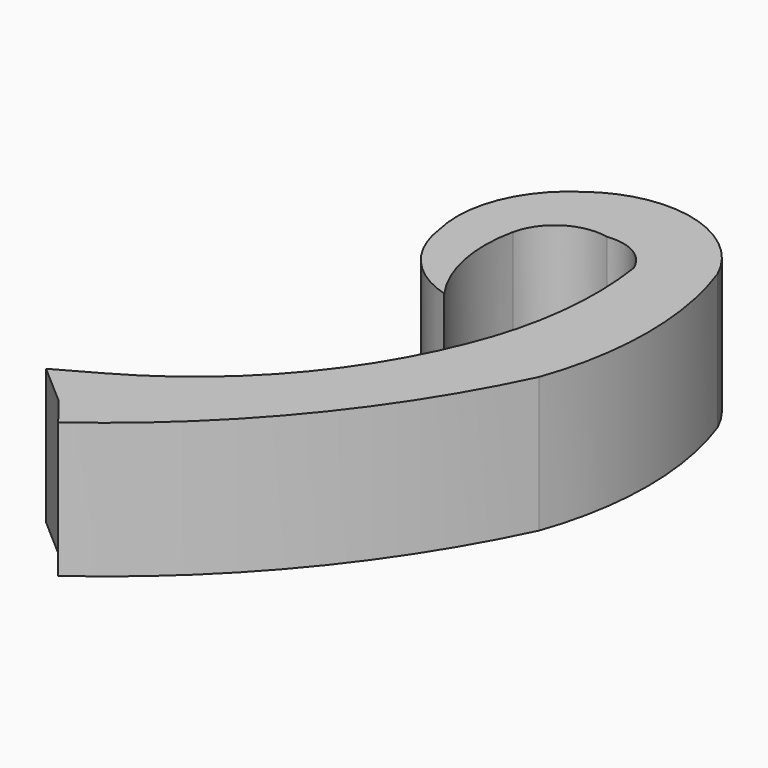
from build123d import *

# Parameters (mm, degrees)
F1_DEPTH = 6.35


with BuildPart() as f1:
    # F0 (on Top) → F1 (new body)
    with BuildSketch(Plane.XY):
        with BuildLine():
            Line((-141.445372, 242.436894), (-140.368393, 241.072127))
            ThreePointArc((-140.368393, 241.072127), (-133.739708, 247.256), (-128.851637, 254.890561))
            ThreePointArc((-128.851637, 254.890561), (-127.942516, 260.127574), (-128.851637, 265.364587))
            ThreePointArc((-128.851637, 265.364587), (-132.33561, 268.276378), (-136.784151, 267.366946))
            ThreePointArc((-136.784151, 267.366946), (-138.793468, 264.910513), (-139.017582, 261.744887))
            ThreePointArc((-139.017582, 261.744887), (-137.941903, 259.320591), (-135.705948, 257.894129))
            ThreePointArc((-135.705948, 257.894129), (-136.808898, 260.47689), (-136.784151, 263.28519))
            ThreePointArc((-136.784151, 263.28519), (-135.703674, 264.815466), (-133.857593, 265.13353))
            ThreePointArc((-133.857593, 265.13353), (-132.476448, 264.877599), (-131.547153, 263.824284))
            ThreePointArc((-131.547153, 263.824284), (-131.47274, 259.520509), (-132.548347, 255.352646))
            ThreePointArc((-132.548347, 255.352646), (-136.120749, 249.50292), (-141.445372, 245.186701))
            Line((-141.445372, 245.186701), (-141.445372, 242.436894))
        make_face()
        Polygon((-143.367835, 244.110105), (-141.445372, 242.436894), (-141.445372, 245.186701), align=None)
    extrude(amount=F1_DEPTH)


solid = f1.part
